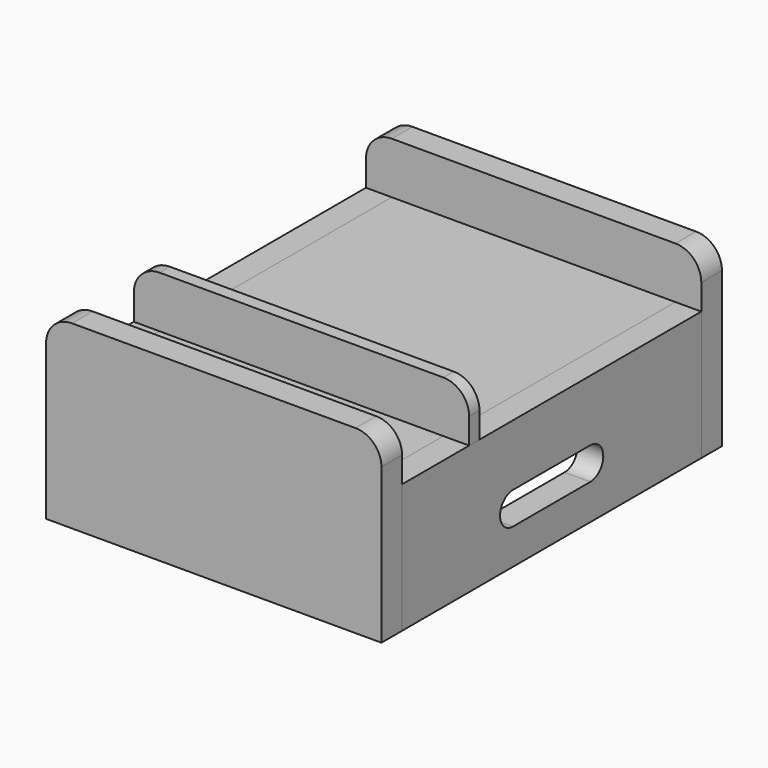
from build123d import *

# Parameters (mm, degrees)
F0_W          = 12.7
F0_H          = 184.15
F1_DEPTH      = 63.5
F2_DEPTH      = 25.4
F2_DEPTH_BACK = 63.5
F3_W          = 139.7
F3_H          = 184.15
F4_DEPTH      = 12.7
F6_DEPTH      = 82.551
F7_W          = 165.1
F7_H          = 6.35
F8_DEPTH      = 25.4
F9_R          = 12.7
F9_2_R        = 12.7
F11_DEPTH     = 104.776


with BuildPart() as f1:
    # F0 (on Top) → F1 (new body)
    with BuildSketch(Plane.XY):
        with Locations((76.2, 0)):
            Rectangle(F0_W, F0_H)
        with Locations((-76.2, 0)):
            Rectangle(F0_W, F0_H)
    extrude(amount=-F1_DEPTH)

    # F5 (on Right) → F6 (cut, through all)
    with BuildSketch(Plane.YZ):
        with BuildLine():
            ThreePointArc((-23.8125, -30.1625), (-31.75, -38.1), (-23.8125, -46.0375))
            Line((-23.8125, -46.0375), (23.8125, -46.0375))
            ThreePointArc((23.8125, -46.0375), (31.75, -38.1), (23.8125, -30.1625))
            Line((23.8125, -30.1625), (-23.8125, -30.1625))
        make_face()
    extrude(amount=F6_DEPTH, mode=Mode.SUBTRACT)


with BuildPart() as f2:
    # F0 (on Top) → F2 (new body, two sides)
    with BuildSketch(Plane.XY) as f2_sk:
        Polygon((69.85, -92.075), (-69.85, -92.075), (-82.55, -92.075), (-82.55, -104.775), (82.55, -104.775), (82.55, -92.075), align=None)
        Polygon((-82.55, 92.075), (-69.85, 92.075), (69.85, 92.075), (82.55, 92.075), (82.55, 104.775), (-82.55, 104.775), align=None)
    extrude(amount=F2_DEPTH)
    extrude(f2_sk.sketch, amount=-F2_DEPTH_BACK)

    # F9
    f9_edges = [f2.edges().sort_by_distance(p)[0] for p in [
        (-82.55, 98.425, 25.4),
        (82.55, 98.425, 25.4),
        (-82.55, -98.425, 25.4),
        (82.55, -98.425, 25.4),
    ]]
    fillet(f9_edges, radius=F9_R)

    # F10 (on Front) → F11 (cut, through all)
    with BuildSketch(Plane.XZ):
        with BuildLine():
            ThreePointArc((-6.35, -31.75), (-9.525, -34.925), (-6.35, -38.1))
            Line((-6.35, -38.1), (6.35, -38.1))
            ThreePointArc((6.35, -38.1), (9.525, -34.925), (6.35, -31.75))
            Line((6.35, -31.75), (-6.35, -31.75))
        make_face()
    extrude(amount=-F11_DEPTH, mode=Mode.SUBTRACT)


with BuildPart() as f4:
    # F3 (on Top) → F4 (new body)
    with BuildSketch(Plane.XY):
        Rectangle(F3_W, F3_H)
    extrude(amount=-F4_DEPTH)


with BuildPart() as f8:
    # F7 (on Top) → F8 (new body)
    with BuildSketch(Plane.XY):
        with Locations((0, -47.625)):
            Rectangle(F7_W, F7_H)
    extrude(amount=F8_DEPTH)

    # F9#2
    f9_2_edges = [f8.edges().sort_by_distance(p)[0] for p in [
        (82.55, -47.625, 25.4),
        (-82.55, -47.625, 25.4),
    ]]
    fillet(f9_2_edges, radius=F9_2_R)


solid = Compound([f1.part, f2.part, f4.part, f8.part])
